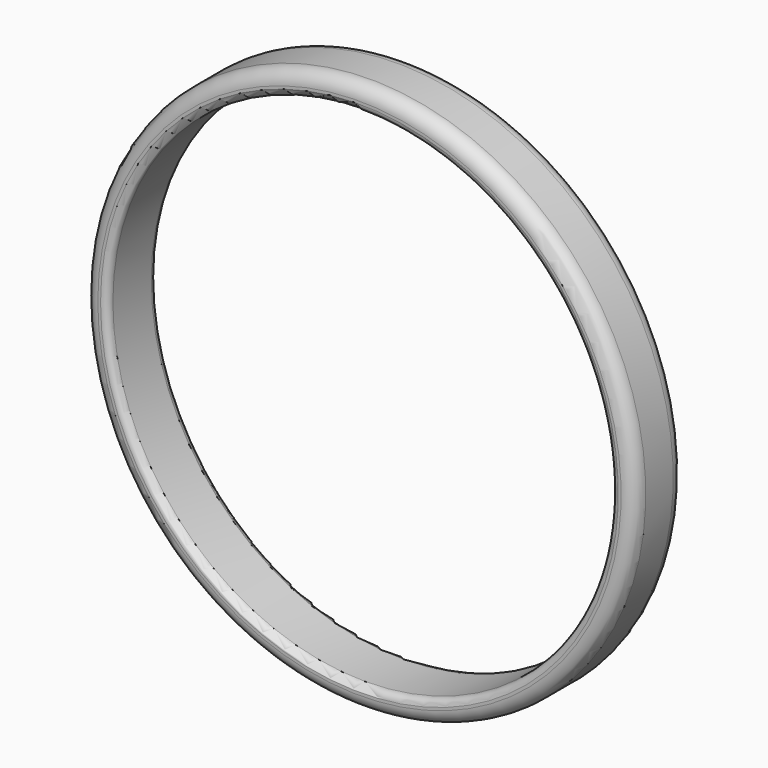
from build123d import *


with BuildPart() as f1:
    # F0 (on Top) → F1 (revolve)
    with BuildSketch(Plane.XY):
        with BuildLine():
            Line((-20.1, 0), (-18.9, 0))
            Line((-18.9, 0), (-18.9, 2.25))
            Line((-18.9, 2.25), (-19.1, 2.25))
            ThreePointArc((-19.1, 2.25), (-19.807107, 1.957107), (-20.1, 1.25))
            Line((-20.1, 1.25), (-20.1, 0))
        make_face()
        with BuildLine():
            Line((-18.4, -1.75), (-18.4, 0))
            Line((-18.4, 0), (-18.9, 0))
            Line((-18.9, 0), (-18.9, -2.25))
            ThreePointArc((-18.9, -2.25), (-18.546447, -2.103553), (-18.4, -1.75))
        make_face()
        with BuildLine():
            Line((-18.9, 0), (-18.4, 0))
            Line((-18.4, 0), (-18.4, 1.75))
            ThreePointArc((-18.4, 1.75), (-18.546447, 2.103553), (-18.9, 2.25))
            Line((-18.9, 2.25), (-18.9, 0))
        make_face()
        with BuildLine():
            Line((-18.9, -2.25), (-18.9, 0))
            Line((-18.9, 0), (-20.1, 0))
            Line((-20.1, 0), (-20.1, -1.25))
            ThreePointArc((-20.1, -1.25), (-19.807107, -1.957107), (-19.1, -2.25))
            Line((-19.1, -2.25), (-18.9, -2.25))
        make_face()
    revolve(axis=Axis((0, -5.353777, 0), (0, -1, 0)))


solid = f1.part
